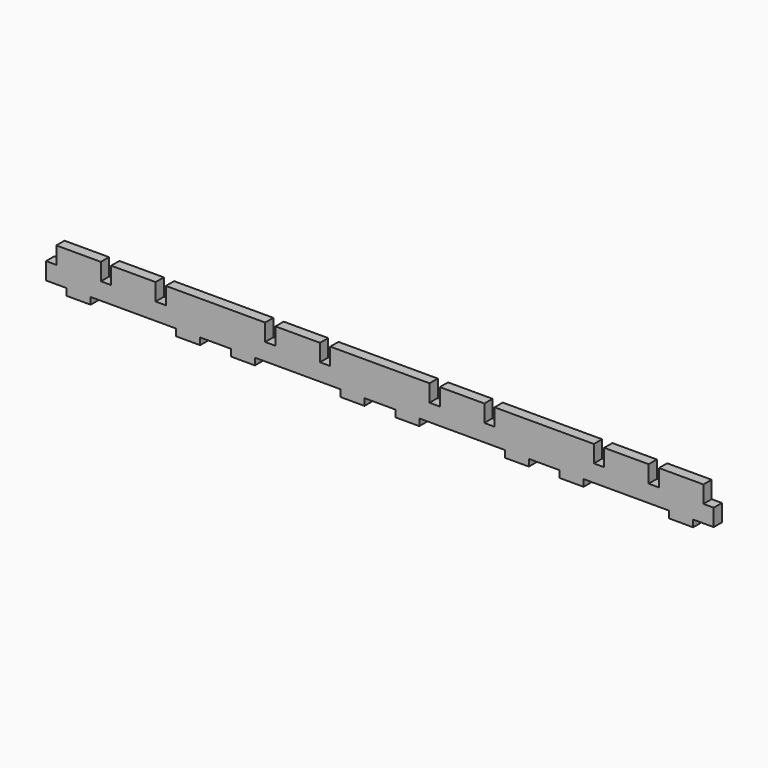
from build123d import *

# Parameters (mm, degrees)
F0_W     = 3
F0_H     = 5
F0_W_2   = 1.5
F1_DEPTH = 3


with BuildPart() as f1:
    # F0 (on Front) → F1 (new body)
    with BuildSketch(Plane.XZ):
        Polygon((1.5, 5), (1.5, 0), (4.5, 0), (4.5, -2), (11.5, -2), (11.5, 0), (14.5, 0), (14.5, 5), (14.5, 10), (11.5, 10), (1.5, 10), align=None)
        with Locations((16, 2.5)):
            Rectangle(F0_W, F0_H)
        Polygon((20.5, 10), (17.5, 10), (17.5, 5), (17.5, 0), (30.5, 0), (30.5, 5), (30.5, 10), align=None)
        with Locations((32, 2.5)):
            Rectangle(F0_W, F0_H)
        Polygon((33.5, 5), (33.5, 0), (36.5, 0), (36.5, -2), (43.5, -2), (43.5, 0), (48, 0), (52.5, 0), (52.5, -2), (59.5, -2), (59.5, 0), (62.5, 0), (62.5, 5), (62.5, 10), (33.5, 10), align=None)
        with Locations((64, 2.5)):
            Rectangle(F0_W, F0_H)
        Polygon((78.5, 10), (65.5, 10), (65.5, 5), (65.5, 0), (78.5, 0), (78.5, 5), align=None)
        with Locations((80, 2.5)):
            Rectangle(F0_W, F0_H)
        Polygon((110.5, 10), (81.5, 10), (81.5, 5), (81.5, 0), (84.5, 0), (84.5, -2), (91.5, -2), (91.5, 0), (96, 0), (100.5, 0), (100.5, -2), (107.5, -2), (107.5, 0), (110.5, 0), (110.5, 5), align=None)
        with Locations((112, 2.5)):
            Rectangle(F0_W, F0_H)
        Polygon((126.5, 10), (113.5, 10), (113.5, 5), (113.5, 0), (126.5, 0), (126.5, 5), align=None)
        with Locations((128, 2.5)):
            Rectangle(F0_W, F0_H)
        Polygon((158.5, 10), (129.5, 10), (129.5, 5), (129.5, 0), (132.5, 0), (132.5, -2), (139.5, -2), (139.5, 0), (144, 0), (148.5, 0), (148.5, -2), (155.5, -2), (155.5, 0), (158.5, 0), (158.5, 5), align=None)
        with Locations((160, 2.5)):
            Rectangle(F0_W, F0_H)
        Polygon((171.5, 10), (161.5, 10), (161.5, 5), (161.5, 0), (174.5, 0), (174.5, 5), (174.5, 10), align=None)
        with Locations((176, 2.5)):
            Rectangle(F0_W, F0_H)
        Polygon((180.5, 10), (177.5, 10), (177.5, 5), (177.5, 0), (180.5, 0), (180.5, -2), (187.5, -2), (187.5, 0), (190.5, 0), (190.5, 5), (190.5, 10), align=None)
        with Locations((0.75, 2.5)):
            Rectangle(F0_W_2, F0_H)
        with Locations((191.25, 2.5)):
            Rectangle(F0_W_2, F0_H)
        with Locations((192.75, 2.5)):
            Rectangle(F0_W_2, F0_H)
        with Locations((-0.75, 2.5)):
            Rectangle(F0_W_2, F0_H)
    extrude(amount=F1_DEPTH)


solid = f1.part
